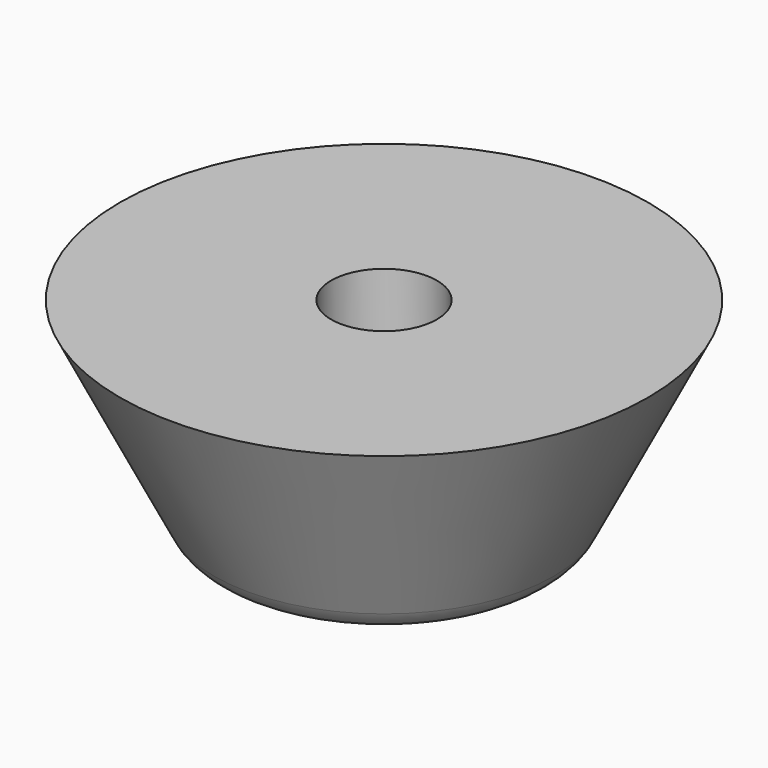
from build123d import *

# Parameters (mm, degrees)
F2_R     = 2.5
F3_DEPTH = 4.001


with BuildPart() as f1:
    # F0 (on Front) → F1 (revolve)
    with BuildSketch(Plane.XZ):
        with BuildLine():
            Line((12.5, 0), (0, 0))
            Line((0, 0), (0, -4))
            Line((0, -4), (4.25, -4))
            Line((4.25, -4), (4.25, -8))
            ThreePointArc((4.25, -8), (5.789276, -9.94621), (8.037733, -8.896666))
            Line((8.037733, -8.896666), (12.5, 0))
        make_face()
    revolve(axis=Axis((0, 0, -2), (0, 0, -1)))

    # F2 (on face) → F3 (cut, through all)
    with BuildSketch(Plane(origin=(0, 0, -4), x_dir=(1, 0, 0), z_dir=(0, 0, -1))):
        Circle(F2_R)
    extrude(amount=-F3_DEPTH, mode=Mode.SUBTRACT)


solid = f1.part
